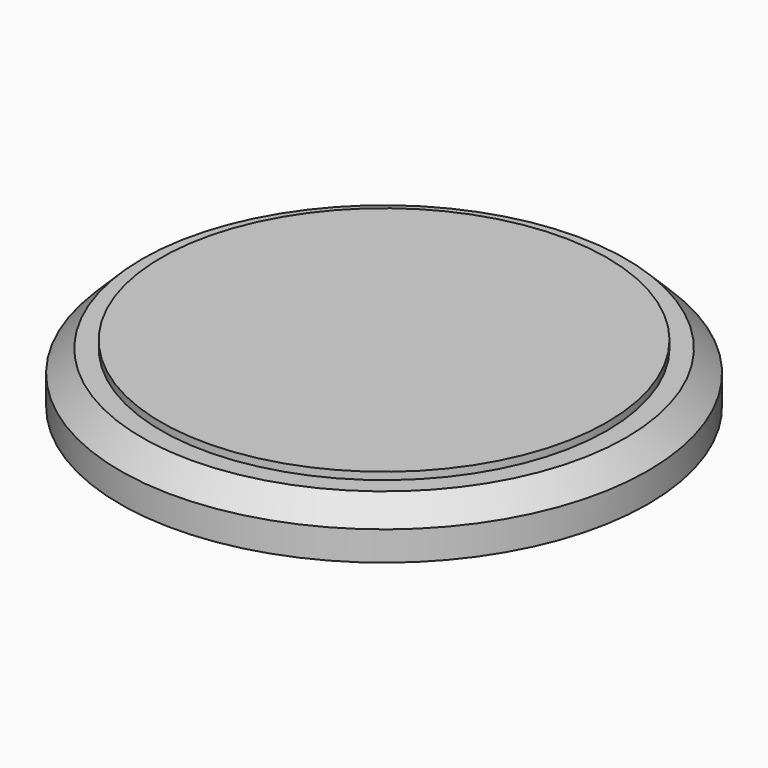
from build123d import *

# Parameters (mm, degrees)
F0_R     = 57.15
F1_DEPTH = 12.7
F2_R     = 82.073796
F2_R_2   = 48.26
F3_DEPTH = 1.5875
F4_SIZE  = 4.7625


with BuildPart() as f1:
    # F0 (on Top) → F1 (new body)
    with BuildSketch(Plane.XY):
        Circle(F0_R)
    extrude(amount=F1_DEPTH)

    # F2 (on face) → F3 (cut)
    with BuildSketch(Plane.XY.offset(12.7)):
        Circle(F2_R)
        Circle(F2_R_2, mode=Mode.SUBTRACT)
    extrude(amount=-F3_DEPTH, mode=Mode.SUBTRACT)

    # F4
    f4_edges = [f1.edges().sort_by_distance(p)[0] for p in [
        (-57.15, 0, 11.1125),
    ]]
    chamfer(f4_edges, length=F4_SIZE)


solid = f1.part
